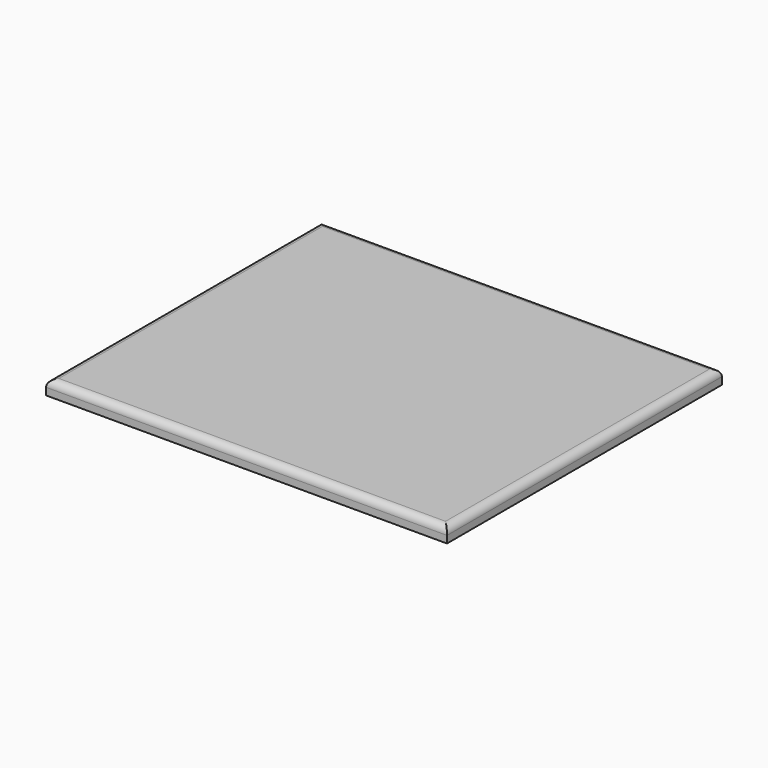
from build123d import *

# Parameters (mm, degrees)
F0_W     = 355.6
F0_H     = 304.8
F1_DEPTH = 12.7
F2_R     = 6.35
F5_W     = 6.35
F5_H     = 2.032


with BuildPart() as f1:
    # F0 (on Top) → F1 (new body)
    with BuildSketch(Plane.XY):
        with Locations((177.8, -152.4)):
            Rectangle(F0_W, F0_H)
    extrude(amount=F1_DEPTH)

    # F2
    f2_edges = [f1.edges().sort_by_distance(p)[0] for p in [
        (0, -152.4, 12.7),
        (177.8, -304.8, 12.7),
        (355.6, -152.4, 12.7),
        (177.8, 0, 12.7),
    ]]
    fillet(f2_edges, radius=F2_R)

    # F6: sweep along a path in F3
    with BuildLine(Plane(origin=(0, 0, 0), x_dir=(1, 0, 0), z_dir=(0, 0, -1))) as f6_path:
        Line((12.7, 292.1), (12.7, 12.7))
        Line((12.7, 12.7), (342.9, 12.7))
        Line((342.9, 12.7), (342.9, 292.1))
        Line((342.9, 292.1), (12.7, 292.1))
    # F5 (on plane+point) → F6 (sweep, cut)
    with BuildSketch(Plane.XZ.offset(12.7)):
        with Locations((15.875, 1.016)):
            Rectangle(F5_W, F5_H)
    sweep(path=f6_path.line, transition=Transition.RIGHT, mode=Mode.SUBTRACT)


solid = f1.part
